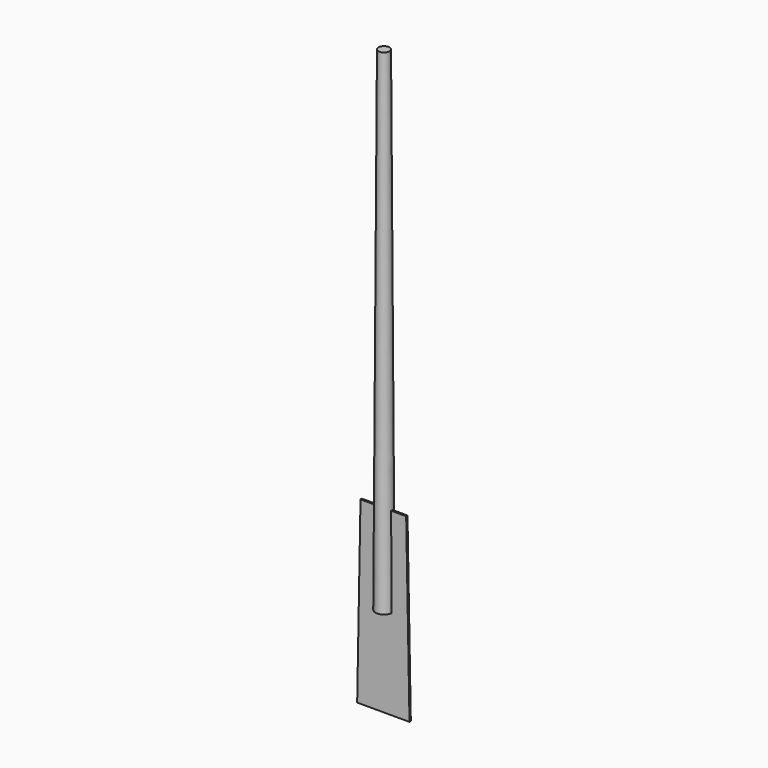
from build123d import *

# Parameters (mm, degrees)
PAD_DEPTH = 0.25


with BuildPart() as b_mandrel:
    # Sketch → Revolution (revolve)
    with BuildSketch(Plane.XZ):
        Polygon((0, 148), (1.653375, 148), (2.52578, 0), (0, 0), align=None)
    revolve(axis=Axis((0, 0, 0), (0, 0, 1)))


with BuildPart() as b_staple_blank:
    # Sketch001 → Pad (new body, symmetric)
    with BuildSketch(Plane.XZ):
        Polygon((-7.85, -27), (7.85, -27), (6.85, 27), (-6.85, 27), align=None)
    extrude(amount=PAD_DEPTH, both=True)


solid = Compound([b_mandrel.part, b_staple_blank.part])
